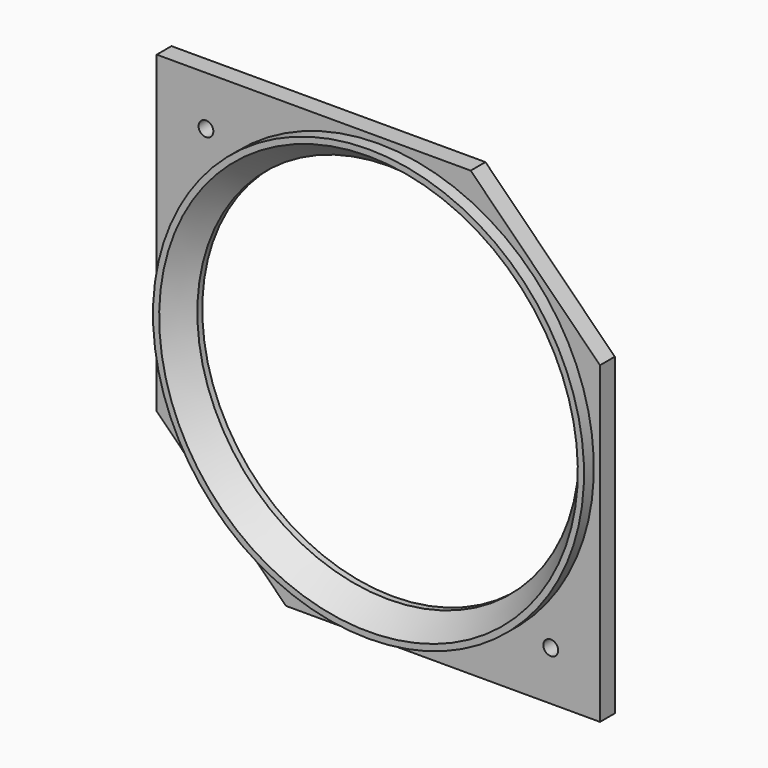
from build123d import *

# Parameters (mm, degrees)
F3_R     = 1.2
F3_R_2   = 35
F4_DEPTH = 3


with BuildPart() as f1:
    # F0 (on Right) → F1 (revolve)
    with BuildSketch(Plane.YZ):
        Polygon((2, 35), (-3, 35), (-3, 34), (1, 31), (2, 31), align=None)
    revolve(axis=Axis((0, 1.602868, 0), (0, -1, 0)))

    # F3 (on offset) → F4 (join)
    with BuildSketch(Plane.XZ.offset(1)):
        Polygon((-15, -36), (36, -36), (36, 15), (15, 36), (-36, 36), (-36, -15), align=None)
        with Locations((28, -28)):
            Circle(F3_R, mode=Mode.SUBTRACT)
        with Locations((-28, 28)):
            Circle(F3_R, mode=Mode.SUBTRACT)
        Circle(F3_R_2, mode=Mode.SUBTRACT)
    extrude(amount=-F4_DEPTH)


solid = f1.part
